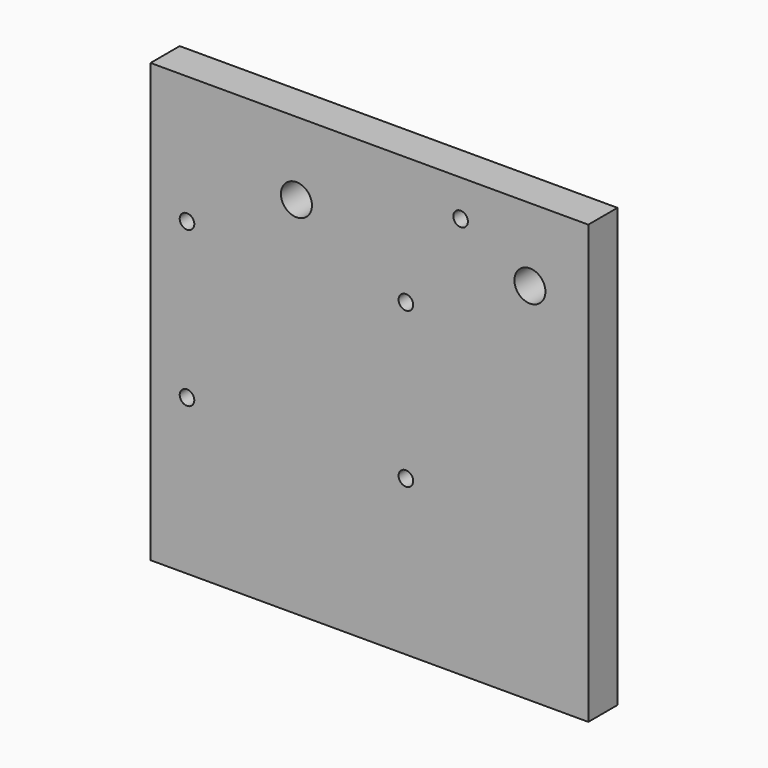
from build123d import *

# Parameters (mm, degrees)
F0_W     = 120
F0_H     = 120
F1_DEPTH = 10
F2_R     = 4.25
F2_R_2   = 2
F3_DEPTH = 10.001
F4_R     = 2
F5_DEPTH = 10.001


with BuildPart() as f1:
    # F0 (on Front) → F1 (new body)
    with BuildSketch(Plane.XZ):
        with Locations((60, 60)):
            Rectangle(F0_W, F0_H)
    extrude(amount=F1_DEPTH)

    # F2 (on face) → F3 (cut, through all)
    with BuildSketch(Plane.XZ.offset(10)):
        with Locations((40, 100)):
            Circle(F2_R)
        with Locations((104, 100)):
            Circle(F2_R)
        with Locations((85, 110)):
            Circle(F2_R_2)
    extrude(amount=-F3_DEPTH, mode=Mode.SUBTRACT)

    # F4 (on face) → F5 (cut, through all)
    with BuildSketch(Plane.XZ.offset(10)):
        with Locations((10, 42.5)):
            Circle(F4_R)
        with Locations((10, 85)):
            Circle(F4_R)
        with Locations((70, 85)):
            Circle(F4_R)
        with Locations((70, 42.5)):
            Circle(F4_R)
    extrude(amount=-F5_DEPTH, mode=Mode.SUBTRACT)


solid = f1.part
